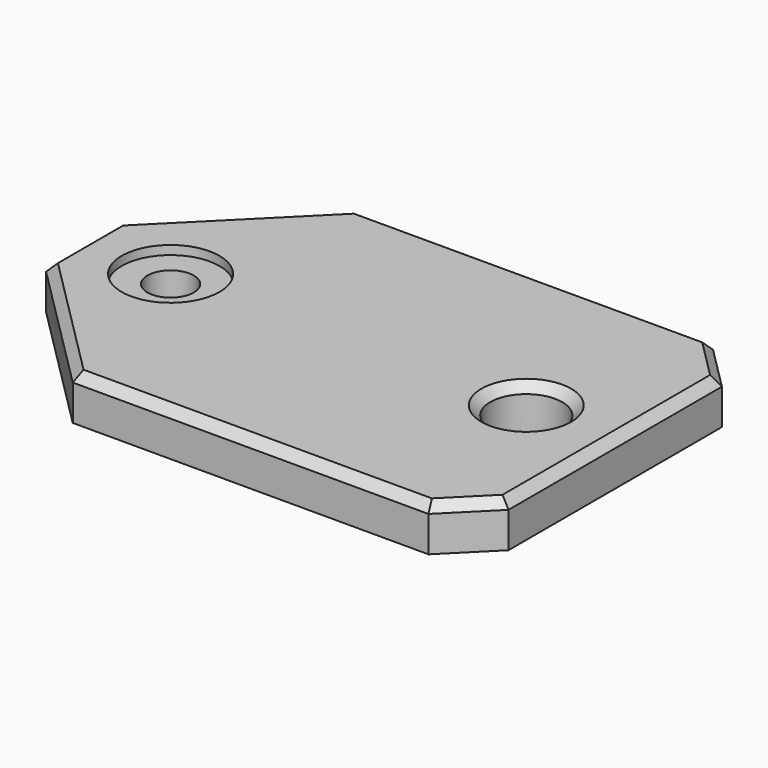
from build123d import *

# Parameters (mm, degrees)
CYLINDER025_R      = 2.6
CYLINDER025_DEPTH  = 10
CYLINDER026_R      = 5.5
CYLINDER026_DEPTH  = 2
CYLINDER001_R      = 4.05
CYLINDER001_DEPTH  = 40
BOX019_W           = 60
BOX019_H           = 40
BOX019_DEPTH       = 5
CHAMFER033009_SIZE = 5
CHAMFER033010_SIZE = 15
CHAMFER033011_SIZE = 1
CHAMFER033012_SIZE = 1
BOX024_W           = 6
BOX024_H           = 7
BOX024_DEPTH       = 3
BOX023_W           = 6
BOX023_H           = 7
BOX023_DEPTH       = 3


with BuildPart() as cylinder022:
    # Cylinder025 → Cylinder025 (new body)
    with BuildSketch(Plane(origin=(-40, 0, 28), x_dir=(1, 0, 0), z_dir=(0, 0, 1))):
        Circle(CYLINDER025_R)
    extrude(amount=CYLINDER025_DEPTH)


with BuildPart() as cylinder023:
    # Cylinder026 → Cylinder026 (new body)
    with BuildSketch(Plane(origin=(-40, 0, 34), x_dir=(1, 0, 0), z_dir=(0, 0, 1))):
        Circle(CYLINDER026_R)
    extrude(amount=CYLINDER026_DEPTH)


with BuildPart() as cylinder001:
    # Cylinder001 → Cylinder001 (new body)
    with BuildSketch(Plane.XY.offset(-0.4)):
        Circle(CYLINDER001_R)
    extrude(amount=CYLINDER001_DEPTH)


with BuildPart() as rod_center_cap:
    # Box019 → Box019 (new body)
    with BuildSketch(Plane(origin=(-50, -20, 30), x_dir=(1, 0, 0), z_dir=(0, 0, 1))):
        with Locations((30, 20)):
            Rectangle(BOX019_W, BOX019_H)
    extrude(amount=BOX019_DEPTH)

    # Chamfer033009
    chamfer033009_edges = [rod_center_cap.edges().sort_by_distance(p)[0] for p in [
        (10, -20, 32.5),
        (10, 20, 32.5),
    ]]
    chamfer(chamfer033009_edges, length=CHAMFER033009_SIZE)

    # Chamfer033010
    chamfer033010_edges = [rod_center_cap.edges().sort_by_distance(p)[0] for p in [
        (-50, 20, 32.5),
        (-50, -20, 32.5),
    ]]
    chamfer(chamfer033010_edges, length=CHAMFER033010_SIZE)

    # Chamfer033011
    chamfer033011_edges = [rod_center_cap.edges().sort_by_distance(p)[0] for p in [
        (-15, 20, 35),
        (-42.5, 12.5, 35),
        (7.5, 17.5, 35),
        (-50, 0, 35),
        (10, 0, 35),
        (-42.5, -12.5, 35),
        (7.5, -17.5, 35),
        (-15, -20, 35),
    ]]
    chamfer(chamfer033011_edges, length=CHAMFER033011_SIZE)

    # Cut011: cut Cylinder001
    add(cylinder001.part, mode=Mode.SUBTRACT)

    # Chamfer033012
    chamfer033012_edges = [rod_center_cap.edges().sort_by_distance(p)[0] for p in [
        (-4.05, 0, 35),
    ]]
    chamfer(chamfer033012_edges, length=CHAMFER033012_SIZE)

    # Cut012: cut Cylinder023
    add(cylinder023.part, mode=Mode.SUBTRACT)

    # Cut013: cut Cylinder022
    add(cylinder022.part, mode=Mode.SUBTRACT)


with BuildPart() as cube024:
    # Box024 → Box024 (new body)
    with BuildSketch(Plane(origin=(-43, -11, 28), x_dir=(1, 0, 0), z_dir=(0, 0, 1))):
        with Locations((3, 3.5)):
            Rectangle(BOX024_W, BOX024_H)
    extrude(amount=BOX024_DEPTH)


with BuildPart() as rod_center_cap001:
    # Box023 → Box023 (new body)
    with BuildSketch(Plane(origin=(-43, 4, 28), x_dir=(1, 0, 0), z_dir=(0, 0, 1))):
        with Locations((3, 3.5)):
            Rectangle(BOX023_W, BOX023_H)
    extrude(amount=BOX023_DEPTH)

    # Fusion020006006: union rod-center-cap, Cube024
    add(rod_center_cap.part)
    add(cube024.part)


solid = rod_center_cap001.part
